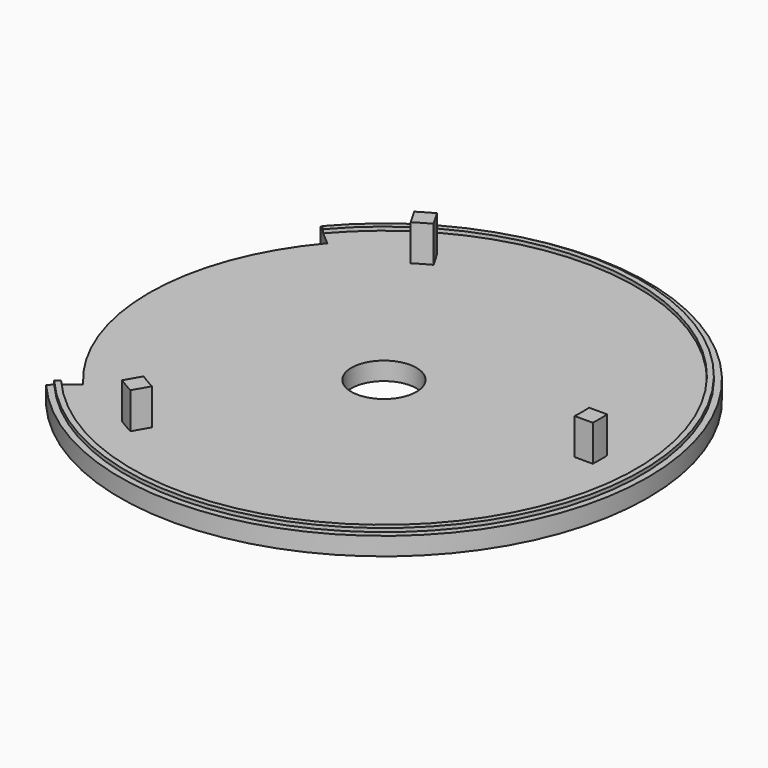
from build123d import *

# Parameters (mm, degrees)
F2_R     = 52.5
F2_R_2   = 40
F3_DEPTH = 2
F4_R     = 9
F5_DEPTH = 5
F7_DEPTH = 10
F9_DEPTH = 6


with BuildPart() as f1:
    # F0 (on Front) → F1 (revolve)
    with BuildSketch(Plane.XZ):
        Polygon((-73, 0), (0, 0), (0, 5), (-69.75, 5), (-69.75, 6), (-71.25, 6), (-71.25, 5), (-73, 5), align=None)
    revolve(axis=Axis((0, 0, 2.5), (0, 0, -1)))

    # F2 (on face) → F3 (cut)
    with BuildSketch(Plane(origin=(0, 0, 0), x_dir=(1, 0, 0), z_dir=(0, 0, -1))):
        Circle(F2_R)
        Circle(F2_R_2, mode=Mode.SUBTRACT)
    extrude(amount=-F3_DEPTH, mode=Mode.SUBTRACT)

    # F4 (on face) → F5 (cut, through all)
    with BuildSketch(Plane.XY.offset(5)):
        Circle(F4_R)
    extrude(amount=-F5_DEPTH, mode=Mode.SUBTRACT)

    # F6 (on face) → F7 (join)
    with BuildSketch(Plane.XY.offset(5)):
        with BuildLine():
            ThreePointArc((59.75, -2.5), (59.802278, 0), (59.75, 2.5))
            Line((59.75, 2.5), (54.75, 2.5))
            ThreePointArc((54.75, 2.5), (54.807048, 0), (54.75, -2.5))
            Line((54.75, -2.5), (59.75, -2.5))
        make_face()
        with BuildLine():
            ThreePointArc((-29.540064, 46.164891), (-27.403524, 47.464296), (-25.209936, 48.664891))
            Line((-25.209936, 48.664891), (-27.709936, 52.995018))
            ThreePointArc((-27.709936, 52.995018), (-29.901139, 51.790292), (-32.040064, 50.495018))
            Line((-32.040064, 50.495018), (-29.540064, 46.164891))
        make_face()
        with BuildLine():
            ThreePointArc((-25.209936, -48.664891), (-27.403524, -47.464296), (-29.540064, -46.164891))
            Line((-29.540064, -46.164891), (-32.040064, -50.495018))
            ThreePointArc((-32.040064, -50.495018), (-29.901139, -51.790292), (-27.709936, -52.995018))
            Line((-27.709936, -52.995018), (-25.209936, -48.664891))
        make_face()
    extrude(amount=F7_DEPTH)

    # F8 (on face) → F9 (cut, through all)
    with BuildSketch(Plane.XY.offset(6)):
        with BuildLine():
            Line((-49.426388, 42.214123), (-55.509635, 47.409708))
            ThreePointArc((-55.509635, 47.409708), (-73, 0), (-55.509635, -47.409708))
            Line((-55.509635, -47.409708), (-49.426388, -42.214123))
            ThreePointArc((-49.426388, -42.214123), (-65, 0), (-49.426388, 42.214123))
        make_face()
    extrude(amount=-F9_DEPTH, mode=Mode.SUBTRACT)


solid = f1.part
